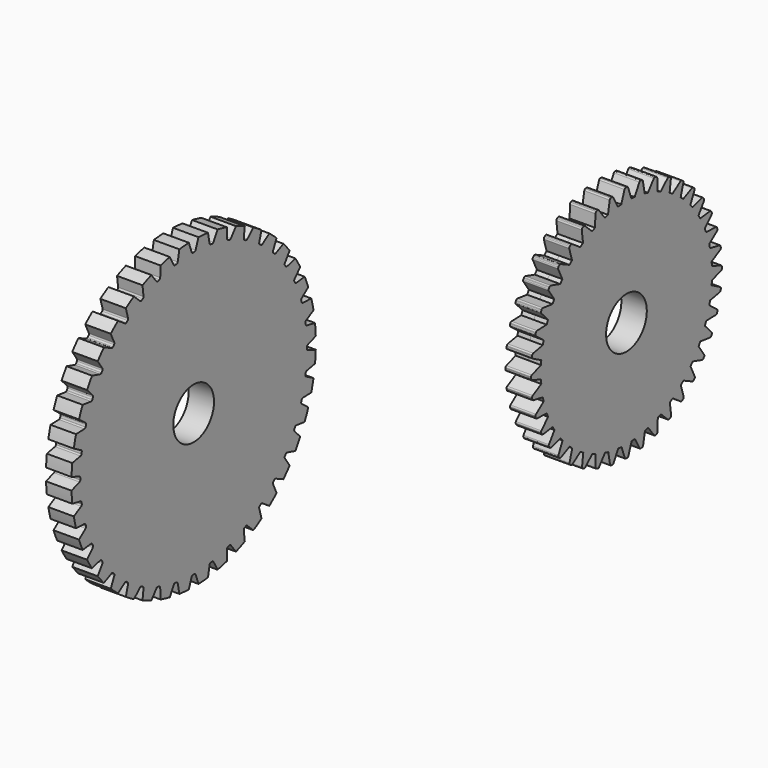
from build123d import *

# Parameters (mm, degrees)
F0_W     = 6.35
F0_H     = 31.75
F3_DEPTH = 6.35
F4_COUNT = 40
F4_ANGLE = 351
F8_DEPTH = 6.35
F9_COUNT = 40


with BuildPart() as f1:
    # F0 (on Front) → F1 (revolve)
    with BuildSketch(Plane.XZ):
        with Locations((-3.175, 22.225)):
            Rectangle(F0_W, F0_H)
    revolve(axis=Axis((-3.175, 0, 0), (1, 0, 0)))

    # F2 (on Right) → F3 (cut, symmetric)
    with BuildSketch(Plane.YZ):
        with BuildLine():
            ThreePointArc((0.2394128968, 35.3432969897), (0.2619605037, 35.343945749), (0.2844335056, 35.34588988))
            ThreePointArc((0.2844335056, 35.34588988), (0, 35.3470343003), (-0.2844335057, 35.34588988))
            ThreePointArc((-0.2844335057, 35.34588988), (-0.2619605037, 35.343945749), (-0.2394128968, 35.3432969897))
            Line((-0.2394128968, 35.3432969897), (0.2394128968, 35.3432969897))
        make_face()
        with BuildLine():
            ThreePointArc((-0.2844335057, 35.34588988), (0, 35.3470343003), (0.2844335056, 35.34588988))
            ThreePointArc((0.2844335056, 35.34588988), (0.4824358796, 35.4276798342), (0.6079087348, 35.6013205533))
            Line((0.6079087348, 35.6013205533), (1.5278118663, 38.1287336349))
            Line((1.5278118663, 38.1287336349), (0, 38.1459370255))
            Line((0, 38.1459370255), (-1.5278118663, 38.1287336349))
            Line((-1.5278118663, 38.1287336349), (-0.6079087348, 35.6013205533))
            ThreePointArc((-0.6079087348, 35.6013205533), (-0.4824358796, 35.4276798342), (-0.2844335057, 35.34588988))
        make_face()
    f3 = extrude(amount=F3_DEPTH, both=True, mode=Mode.SUBTRACT)

    # F4: F3 ×40 about axis
    f4_axis = Axis((0, 0, 0), (1, 0, 0))
    for i in range(1, F4_COUNT):
        add(f3.rotate(f4_axis, i * F4_ANGLE / (F4_COUNT - 1)), mode=Mode.SUBTRACT)


with BuildPart() as f6:
    # F5 (on Top) → F6 (revolve)
    with BuildSketch(Plane.XY):
        Polygon((38.7737038109, 109.1673338547), (35.5987038109, 109.1584047318), (35.5987038109, 88.8428810477), (38.7737038109, 88.8428810477), align=None)
        Polygon((41.9487038109, 109.1762629777), (38.7737038109, 109.1673338547), (38.7737038109, 88.8428810477), (41.9487038109, 88.8428810477), align=None)
    revolve(axis=Axis((33.552388406, 82.4928810477, 0), (-1, 0, 0)))

    # F7 (on face) → F8 (join)
    with BuildSketch(Plane.YZ.offset(41.9487038109)):
        with BuildLine():
            ThreePointArc((82.4928810477, 29.7630608385), (82.3574464664, 29.7637416097), (82.2220154878, 29.7649413083))
            ThreePointArc((82.2220154878, 29.7649413083), (82.0201440009, 29.6830718833), (81.8931104025, 29.5061053191))
            Line((81.8931104025, 29.5061053191), (80.8735203645, 26.6341987339))
            ThreePointArc((80.8735203645, 26.6341987339), (81.6828273444, 26.6710832967), (82.4928810477, 26.68338193))
            Line((82.4928810477, 26.68338193), (82.4928810477, 29.7630608385))
        make_face()
        with BuildLine():
            ThreePointArc((82.6765921219, 29.7629667718), (82.5847365237, 29.7628944535), (82.4928810477, 29.7630608385))
            Line((82.4928810477, 29.7630608385), (82.4928810477, 26.68338193))
            ThreePointArc((82.4928810477, 26.68338193), (83.2593160427, 26.6723723846), (84.0251185765, 26.6393528333))
            Line((84.0251185765, 26.6393528333), (83.0020198157, 29.5051329523))
            ThreePointArc((83.0020198157, 29.5051329523), (82.8762280507, 29.6806514599), (82.6765921219, 29.7629667718))
        make_face()
        with BuildLine():
            Line((82.4928810477, 26.5149721466), (82.4928810477, 26.68338193))
            ThreePointArc((82.4928810477, 26.68338193), (81.6828273444, 26.6710832967), (80.8735203645, 26.6341987339))
            Line((80.8735203645, 26.6341987339), (80.8308720589, 26.5140701085))
            Line((80.8308720589, 26.5140701085), (82.4928810477, 26.5149721466))
        make_face()
        with BuildLine():
            ThreePointArc((84.0251185765, 26.6393528333), (83.2593160427, 26.6723723846), (82.4928810477, 26.68338193))
            Line((82.4928810477, 26.68338193), (82.4928810477, 26.5149721466))
            Line((82.4928810477, 26.5149721466), (84.0695231439, 26.5149721466))
            Line((84.0695231439, 26.5149721466), (84.0251185765, 26.6393528333))
        make_face()
    f8 = extrude(amount=-F8_DEPTH)

    # F9: F8 ×40 about axis
    f9_axis = Axis((41.9487038109, 82.4928810477, 0), (-1, 0, 0))
    for i in range(1, F9_COUNT):
        add(f8.rotate(f9_axis, i * 360 / F9_COUNT))


solid = Compound([f1.part, f6.part])
